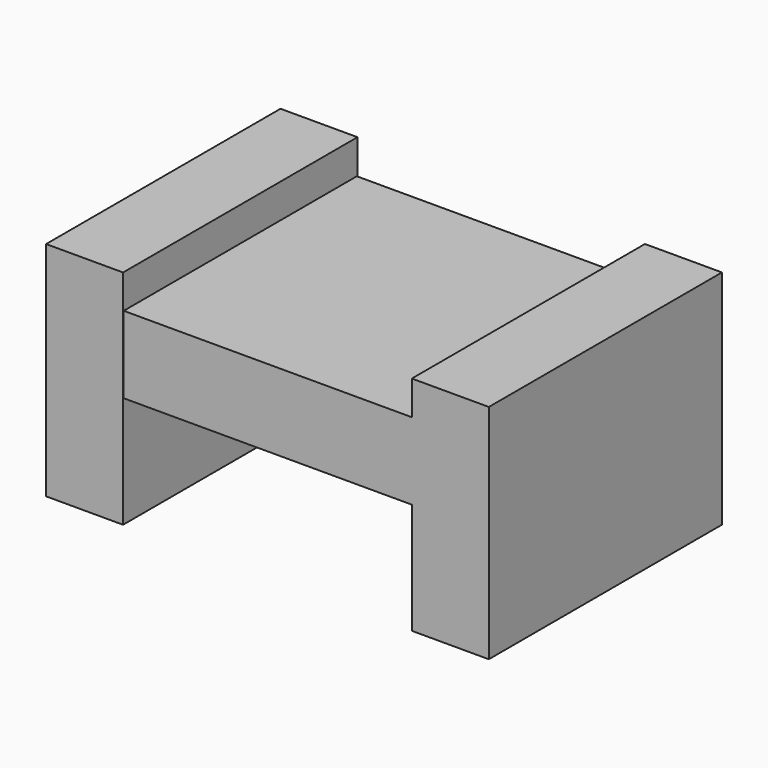
from build123d import *

# Parameters (mm, degrees)
F0_W     = 149.702176
F0_H     = 151.402846
F1_DEPTH = 40
F2_W     = 151.402846
F2_H     = 115.410104
F3_DEPTH = 40
F4_W     = 152.249246
F4_H     = 115.410104
F5_DEPTH = 40


with BuildPart() as f1:
    # F0 (on Top) → F1 (new body)
    with BuildSketch(Plane.XY):
        Rectangle(F0_W, F0_H)
    extrude(amount=F1_DEPTH)

    # F2 (on face) → F3 (join)
    with BuildSketch(Plane.YZ.offset(74.851088)):
        Rectangle(F2_W, F2_H)
    extrude(amount=F3_DEPTH)

    # F4 (on face) → F5 (join)
    with BuildSketch(Plane(origin=(-74.851088, 0, 0), x_dir=(0, -1, 0), z_dir=(-1, 0, 0))):
        Rectangle(F4_W, F4_H)
    extrude(amount=F5_DEPTH)


solid = f1.part
